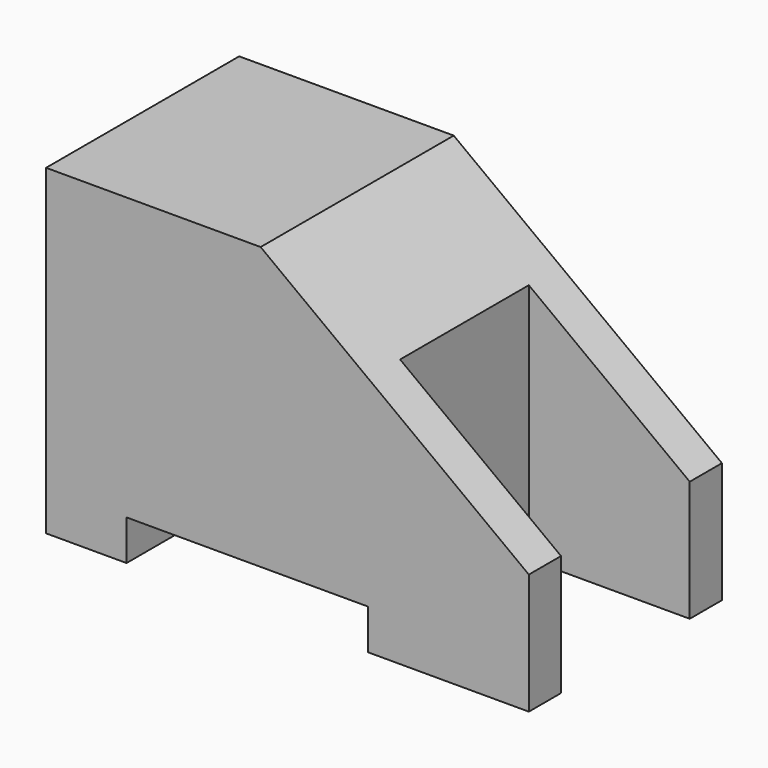
from build123d import *

# Parameters (mm, degrees)
F0_W     = 30
F0_H     = 20
F1_DEPTH = 15
F2_W     = 15
F2_H     = 2.5
F3_DEPTH = 15.001
F4_W     = 10
F4_H     = 10
F5_DEPTH = 20.001


with BuildPart() as f1:
    # F0 (on Front) → F1 (new body)
    with BuildSketch(Plane.XZ):
        with Locations((15, 10)):
            Rectangle(F0_W, F0_H)
    extrude(amount=F1_DEPTH)

    # F2 (on face) → F3 (cut, through all)
    with BuildSketch(Plane.XZ.offset(15)):
        with Locations((12.5, 1.25)):
            Rectangle(F2_W, F2_H)
        Polygon((30, 7.5), (30, 20), (13.333333, 20), align=None)
    extrude(amount=-F3_DEPTH, mode=Mode.SUBTRACT)

    # F4 (on face) → F5 (cut, through all)
    with BuildSketch(Plane(origin=(0, 0, 0), x_dir=(1, 0, 0), z_dir=(0, 0, -1))):
        with Locations((25, 7.5)):
            Rectangle(F4_W, F4_H)
    extrude(amount=-F5_DEPTH, mode=Mode.SUBTRACT)


solid = f1.part
